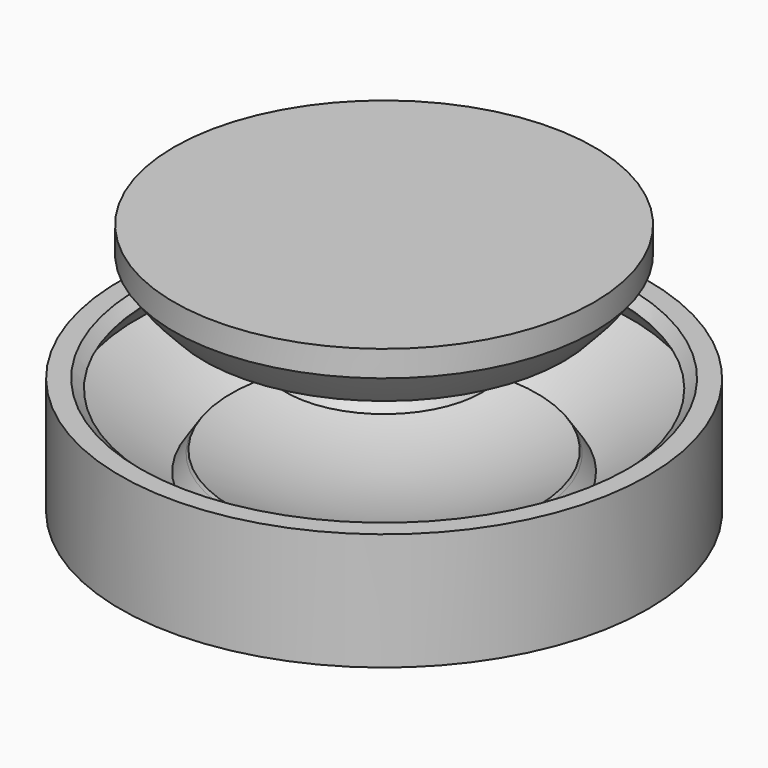
from build123d import *

# Parameters (mm, degrees)
F1_R     = 5
F2_DEPTH = 2


with BuildPart() as f2:
    # F1 (on Top) → F2 (new body)
    with BuildSketch(Plane.XY):
        Circle(F1_R)
    extrude(amount=F2_DEPTH)

    # F3 (on Front) → F4 (revolve)
    with BuildSketch(Plane.XZ):
        with BuildLine():
            Line((0, 2), (0, 0))
            Line((0, 0), (25, 0))
            Line((25, 0), (27, 0))
            Line((27, 0), (27, 12))
            Line((27, 12), (25, 12))
            ThreePointArc((25, 12), (24.4939551563, 11.5271883815), (23.9789700303, 11.064130577))
            Line((23.9789700303, 11.064130577), (24.1701333181, 10.7751541335))
            Line((24.1701333181, 10.7751541335), (25.2735815939, 9.1071008063))
            Line((25.2735815939, 9.1071008063), (16.9333149578, 3.589859427))
            Line((16.9333149578, 3.589859427), (15.8298666819, 5.2579127542))
            Line((15.8298666819, 5.2579127542), (15.6387033941, 5.5468891976))
            ThreePointArc((15.6387033941, 5.5468891976), (8.0179403033, 2.8978411792), (0, 2))
        make_face()
    revolve(axis=Axis((0, 0, 1), (0, 0, 1)))


with BuildPart() as f4:
    # F3 (on Front) → F4, piece 2 (revolve)
    with BuildSketch(Plane.XZ):
        with BuildLine():
            Line((0, 25.8287321776), (0, 12))
            ThreePointArc((0, 12), (5.1221996467, 12.5046009784), (10.0474722875, 13.9990041311))
            Line((10.0474722875, 13.9990041311), (8.9440240116, 15.6670574584))
            Line((8.9440240116, 15.6670574584), (17.2842906478, 21.1842988377))
            Line((17.2842906478, 21.1842988377), (18.3877389237, 19.5162455104))
            ThreePointArc((18.3877389237, 19.5162455104), (20.0222385673, 21.2743567793), (21.4892947103, 23.1744332494))
            Line((21.4892947103, 23.1744332494), (21.4892947103, 25.8287321776))
            Line((21.4892947103, 25.8287321776), (0, 25.8287321776))
        make_face()
    revolve(axis=Axis((0, 0, 1), (0, 0, 1)))


solid = Compound([f2.part, f4.part])
